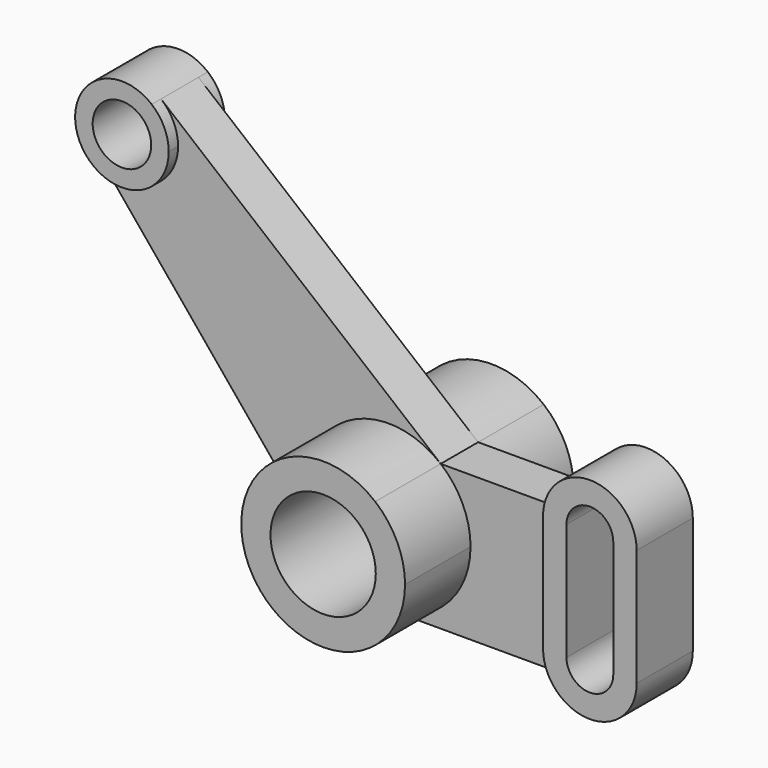
from build123d import *

# Parameters (mm, degrees)
F0_R     = 12.5
F1_DEPTH = 15
F0_R_2   = 22.5
F2_DEPTH = 45
F3_DEPTH = 10


with BuildPart() as f1:
    # F0 (on Front) → F1 (new body, symmetric)
    with BuildSketch(Plane.XZ):
        with BuildLine():
            ThreePointArc((-90, 110), (-91.913374, 118.536626), (-97.287398, 125.439875))
            ThreePointArc((-97.287398, 125.439875), (-124.142136, 124.142136), (-125.439875, 97.287398))
            ThreePointArc((-125.439875, 97.287398), (-103.24713, 91.174519), (-90, 110))
        make_face()
        with Locations((-110, 110)):
            Circle(F0_R, mode=Mode.SUBTRACT)
        with BuildLine():
            ThreePointArc((110, 25), (91.011184, 44.974421), (70.102249, 27.019781))
            ThreePointArc((70.102249, 27.019781), (70.025579, 26.011184), (70, 25))
            Line((70, 25), (70, -25))
            ThreePointArc((70, -25), (70.681483, -30.176381), (72.679492, -35))
            ThreePointArc((72.679492, -35), (95.176381, -44.318517), (110, -25))
            Line((110, -25), (110, 25))
        make_face()
        with BuildLine():
            ThreePointArc((80, 25), (90, 35), (100, 25))
            Line((100, 25), (100, -25))
            ThreePointArc((100, -25), (90, -35), (80, -25))
            Line((80, -25), (80, 25))
        make_face(mode=Mode.SUBTRACT)
    extrude(amount=F1_DEPTH, both=True)


with BuildPart() as f2:
    # F0 (on Front) → F2 (new body, symmetric)
    with BuildSketch(Plane.XZ):
        with BuildLine():
            ThreePointArc((0, -35), (24.748737, -24.748737), (35, 0))
            ThreePointArc((35, 0), (31.651595, 14.939095), (22.247054, 27.019781))
            ThreePointArc((22.247054, 27.019781), (-24.748737, 24.748737), (-27.019781, -22.247054))
            ThreePointArc((-27.019781, -22.247054), (-14.939095, -31.651595), (0, -35))
        make_face()
        Circle(F0_R_2, mode=Mode.SUBTRACT)
    extrude(amount=F2_DEPTH, both=True)


with BuildPart() as f3:
    # F0 (on Front) → F3 (new body, symmetric)
    with BuildSketch(Plane.XZ):
        with BuildLine():
            ThreePointArc((-27.019781, -22.247054), (-24.748737, 24.748737), (22.247054, 27.019781))
            Line((22.247054, 27.019781), (-97.287398, 125.439875))
            ThreePointArc((-97.287398, 125.439875), (-91.913374, 118.536626), (-90, 110))
            ThreePointArc((-90, 110), (-103.24713, 91.174519), (-125.439875, 97.287398))
            Line((-125.439875, 97.287398), (-27.019781, -22.247054))
        make_face()
        with BuildLine():
            ThreePointArc((22.247054, 27.019781), (31.651595, 14.939095), (35, 0))
            ThreePointArc((35, 0), (24.748737, -24.748737), (0, -35))
            Line((0, -35), (72.679492, -35))
            ThreePointArc((72.679492, -35), (70.681483, -30.176381), (70, -25))
            Line((70, -25), (70, 25))
            ThreePointArc((70, 25), (70.025579, 26.011184), (70.102249, 27.019781))
            Line((70.102249, 27.019781), (22.247054, 27.019781))
        make_face()
    extrude(amount=F3_DEPTH, both=True)


solid = Compound([f1.part, f2.part, f3.part])
